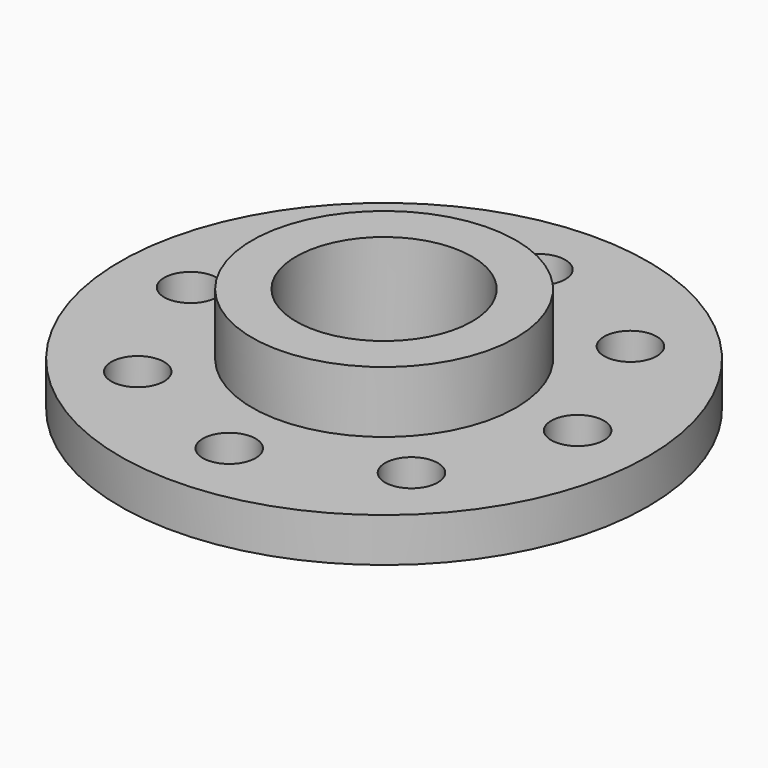
from build123d import *

# Parameters (mm, degrees)
CYLINDER003_R     = 3
CYLINDER003_DEPTH = 10
ARRAY_COUNT       = 8
CYLINDER002_R     = 10
CYLINDER002_DEPTH = 30
CYLINDER_R        = 30
CYLINDER_DEPTH    = 5
CYLINDER001_R     = 15
CYLINDER001_DEPTH = 12


with BuildPart() as array:
    # Cylinder003 → Cylinder003 (new body)
    with BuildSketch(Plane(origin=(22, 0, -1), x_dir=(1, 0, 0), z_dir=(0, 0, 1))):
        Circle(CYLINDER003_R)
    extrude(amount=CYLINDER003_DEPTH)

    # Array: Array ×8 about axis
    array_axis = Axis((0, 0, 0), (0, 0, 1))


with BuildPart() as array_1:
    add(array.part)
    for i in range(1, ARRAY_COUNT):
        add(array.part.rotate(array_axis, i * 360 / ARRAY_COUNT))


with BuildPart() as cilindre002:
    # Cylinder002 → Cylinder002 (new body)
    with BuildSketch(Plane.XY.offset(-1)):
        Circle(CYLINDER002_R)
    extrude(amount=CYLINDER002_DEPTH)


with BuildPart() as cilindre:
    # Cylinder → Cylinder (new body)
    with BuildSketch(Plane.XY):
        Circle(CYLINDER_R)
    extrude(amount=CYLINDER_DEPTH)


with BuildPart() as cut001:
    # Cylinder001 → Cylinder001 (new body)
    with BuildSketch(Plane.XY):
        Circle(CYLINDER001_R)
    extrude(amount=CYLINDER001_DEPTH)

    # Fusion: union Cilindre
    add(cilindre.part)

    # Cut: cut Cilindre002
    add(cilindre002.part, mode=Mode.SUBTRACT)

    # Cut001: cut Array
    add(array_1.part, mode=Mode.SUBTRACT)


solid = cut001.part
